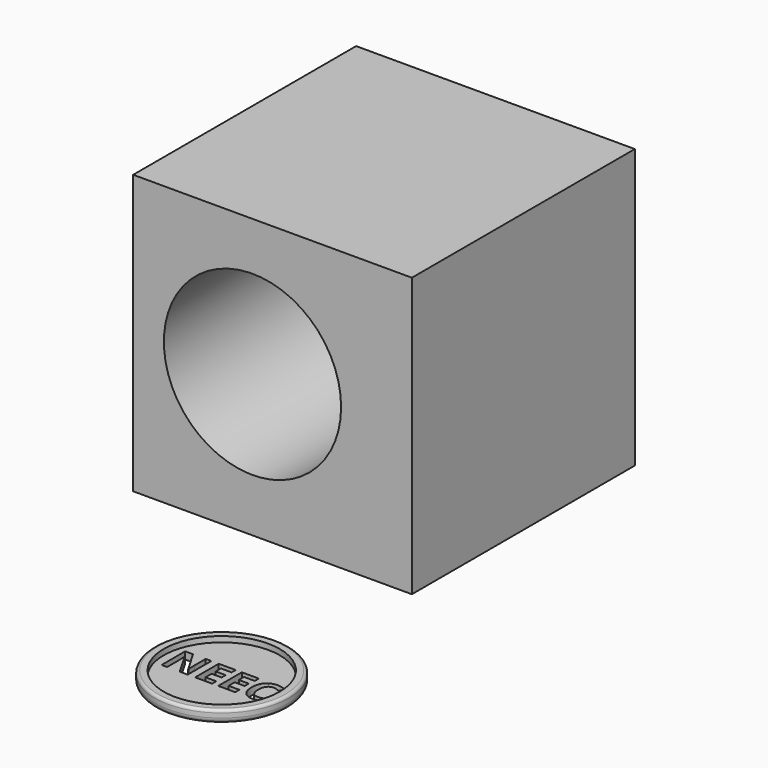
from build123d import *

# Parameters (mm, degrees)
F0_R     = 12
F0_R_2   = 10.4
F1_DEPTH = 2.3
F2_DEPTH = 1.3
F3_R     = 1
F4_R     = 0.5
F5_W     = 50
F5_H     = 50
F6_DEPTH = 50
F7_R     = 15.8989374397
F8_DEPTH = 100


with BuildPart() as f1:
    # F0 (on Top) → F1 (new body)
    with BuildSketch(Plane.XY):
        Circle(F0_R)
        Circle(F0_R_2, mode=Mode.SUBTRACT)
    extrude(amount=F1_DEPTH)

    # F0 (on Top) → F2 (join)
    with BuildSketch(Plane.XY):
        Circle(F0_R_2)
        with BuildLine():
            Line((-4.106343837, 2.7947281366), (-4.106343837, -2.4944755714))
            Line((-4.106343837, -2.4944755714), (-5.5313842758, -2.4944755714))
            Line((-5.5313842758, -2.4944755714), (-7.8327493385, 1.5062878374))
            Line((-7.8327493385, 1.5062878374), (-7.8651629309, 1.5062878374))
            add(Edge.make_bspline(
                [(-7.8651629309, 1.5062878374), (-7.7957052328, 0.4470579418), (-7.7957052328, -0.0055747239)],
                knots=[0, 0, 0, 1, 1, 1], degree=2))
            Line((-7.7957052328, -0.0055747239), (-7.7957052328, -2.4944755714))
            Line((-7.7957052328, -2.4944755714), (-8.7982113417, -2.4944755714))
            Line((-8.7982113417, -2.4944755714), (-8.7982113417, 2.7947281366))
            Line((-8.7982113417, 2.7947281366), (-7.3835895576, 2.7947281366))
            Line((-7.3835895576, 2.7947281366), (-5.0868550081, -1.16667591))
            Line((-5.0868550081, -1.16667591), (-5.0613871855, -1.16667591))
            add(Edge.make_bspline(
                [(-5.0613871855, -1.16667591), (-5.1157957156, -0.1352290937), (-5.1157957156, 0.2907781212)],
                knots=[0, 0, 0, 1, 1, 1], degree=2))
            Line((-5.1157957156, 0.2907781212), (-5.1157957156, 2.7947281366))
            Line((-5.1157957156, 2.7947281366), (-4.106343837, 2.7947281366))
        make_face(mode=Mode.SUBTRACT)
        Polygon((0.2706487697, -1.5683729305), (0.2706487697, -2.4944755714), (-2.7750712907, -2.4944755714), (-2.7750712907, 2.7947281366), (0.2706487697, 2.7947281366), (0.2706487697, 1.8755712655), (-1.6533294668, 1.8755712655), (-1.6533294668, 0.7144700794), (0.1375215151, 0.7144700794), (0.1375215151, -0.2046867917), (-1.6533294668, -0.2046867917), (-1.6533294668, -1.5683729305), align=None, mode=Mode.SUBTRACT)
        Polygon((4.4195886011, -1.5683729305), (4.4195886011, -2.4944755714), (1.3738685407, -2.4944755714), (1.3738685407, 2.7947281366), (4.4195886011, 2.7947281366), (4.4195886011, 1.8755712655), (2.4956103646, 1.8755712655), (2.4956103646, 0.7144700794), (4.2864613465, 0.7144700794), (4.2864613465, -0.2046867917), (2.4956103646, -0.2046867917), (2.4956103646, -1.5683729305), align=None, mode=Mode.SUBTRACT)
        with BuildLine():
            add(Edge.make_bspline(
                [(8.35899771, 1.8321602042), (8.05917198, 1.9369255654), (7.7697649047, 1.9369255654)],
                knots=[0, 0, 0, 1, 1, 1], degree=2))
            add(Edge.make_bspline(
                [(7.7697649047, 1.9369255654), (7.1365422239, 1.9369255654), (6.7892537336, 1.4611403337)],
                knots=[0, 0, 0, 1, 1, 1], degree=2))
            add(Edge.make_bspline(
                [(6.7892537336, 1.4611403337), (6.4419652432, 0.9853551019), (6.4419652432, 0.1356559288)],
                knots=[0, 0, 0, 1, 1, 1], degree=2))
            add(Edge.make_bspline(
                [(6.4419652432, 0.1356559288), (6.4419652432, -1.6332001154), (7.7697649047, -1.6332001154)],
                knots=[0, 0, 0, 1, 1, 1], degree=2))
            add(Edge.make_bspline(
                [(7.7697649047, -1.6332001154), (8.3265841175, -1.6332001154), (9.1184018755, -1.3553693231)],
                knots=[0, 0, 0, 1, 1, 1], degree=2))
            Line((9.1184018755, -1.3553693231), (9.1184018755, -2.2953635036))
            add(Edge.make_bspline(
                [(9.1184018755, -2.2953635036), (8.4678147703, -2.5674061544), (7.6644207293, -2.5674061544)],
                knots=[0, 0, 0, 1, 1, 1], degree=2))
            add(Edge.make_bspline(
                [(7.6644207293, -2.5674061544), (6.510265313, -2.5674061544), (5.89903757, -1.8670410322)],
                knots=[0, 0, 0, 1, 1, 1], degree=2))
            add(Edge.make_bspline(
                [(5.89903757, -1.8670410322), (5.287809827, -1.16667591), (5.287809827, 0.1426016986)],
                knots=[0, 0, 0, 1, 1, 1], degree=2))
            add(Edge.make_bspline(
                [(5.287809827, 0.1426016986), (5.287809827, 0.9679906774), (5.5882143711, 1.5884794468)],
                knots=[0, 0, 0, 1, 1, 1], degree=2))
            add(Edge.make_bspline(
                [(5.5882143711, 1.5884794468), (5.8886189153, 2.2089682162), (6.4512262696, 2.5394710962)],
                knots=[0, 0, 0, 1, 1, 1], degree=2))
            add(Edge.make_bspline(
                [(6.4512262696, 2.5394710962), (7.013833624, 2.8699739762), (7.7697649047, 2.8699739762)],
                knots=[0, 0, 0, 1, 1, 1], degree=2))
            add(Edge.make_bspline(
                [(7.7697649047, 2.8699739762), (8.539587725, 2.8699739762), (9.3175139433, 2.4983752915)],
                knots=[0, 0, 0, 1, 1, 1], degree=2))
            Line((9.3175139433, 2.4983752915), (8.9563339134, 1.5861641902))
            add(Edge.make_bspline(
                [(8.9563339134, 1.5861641902), (8.65882344, 1.7273948429), (8.35899771, 1.8321602042)],
                knots=[0, 0, 0, 1, 1, 1], degree=2))
        make_face(mode=Mode.SUBTRACT)
    extrude(amount=F2_DEPTH)

    # F3
    f3_edges = [f1.edges().sort_by_distance(p)[0] for p in [
        (-12, 0, 0),
    ]]
    fillet(f3_edges, radius=F3_R)

    # F4
    f4_edges = [f1.edges().sort_by_distance(p)[0] for p in [
        (-12, 0, 2.3),
    ]]
    fillet(f4_edges, radius=F4_R)


with BuildPart() as f6:
    # F5 (on Top) → F6 (new body)
    with BuildSketch(Plane.XY):
        with Locations((-21.373128891, 63.1102785468)):
            Rectangle(F5_W, F5_H)
    extrude(amount=F6_DEPTH)

    # F7 (on face) → F8 (cut)
    with BuildSketch(Plane.XZ.offset(-38.1102785468)):
        with Locations((-24.9677170068, 25.4364721477)):
            Circle(F7_R)
    extrude(amount=-F8_DEPTH, mode=Mode.SUBTRACT)


solid = Compound([f1.part, f6.part])
